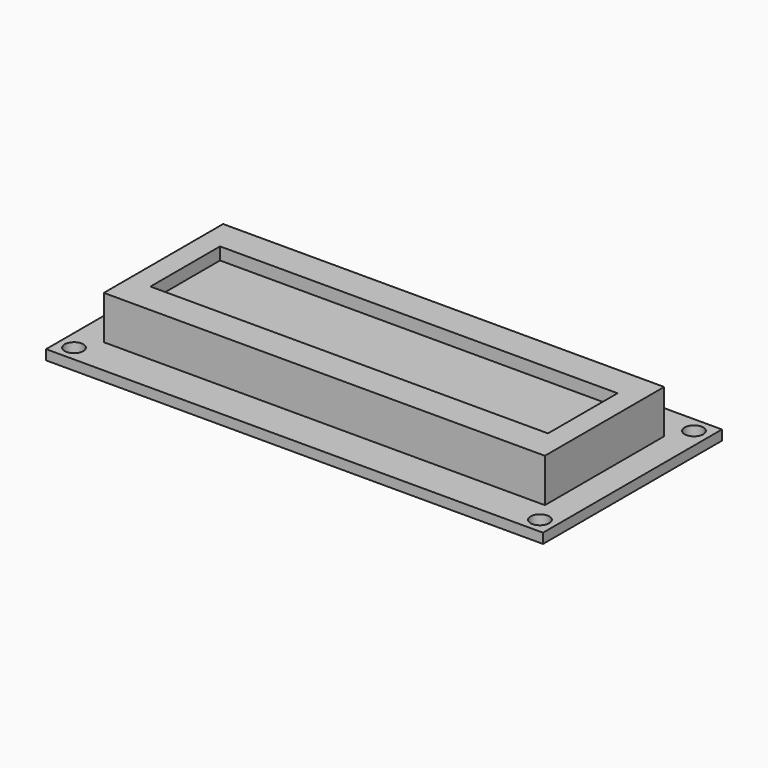
from build123d import *

# Parameters (mm, degrees)
F0_W      = 80
F0_H      = 36
F0_R      = 1.5
F0_W_2    = 71
F0_H_2    = 24
F1_DEPTH  = 1.6
F2_DEPTH  = 7
F3_W      = 64
F3_H      = 14
F4_DEPTH  = 2.2
F4_FACE_W = 64
F4_FACE_H = 14
F5_DEPTH  = 0.2
F6_R      = 0.4
F7_DEPTH  = 25


with BuildPart() as f1:
    # F0 (on Top) → F1 (new body)
    with BuildSketch(Plane.XY):
        Rectangle(F0_W, F0_H)
        with Locations((-37.5, -15.5)):
            Circle(F0_R, mode=Mode.SUBTRACT)
        with Locations((37.5, -15.5)):
            Circle(F0_R, mode=Mode.SUBTRACT)
        with Locations((-37.5, 15.5)):
            Circle(F0_R, mode=Mode.SUBTRACT)
        Rectangle(F0_W_2, F0_H_2, mode=Mode.SUBTRACT)
        with Locations((37.5, 15.5)):
            Circle(F0_R, mode=Mode.SUBTRACT)
        Rectangle(F0_W_2, F0_H_2)
    extrude(amount=-F1_DEPTH)

    # F6 (on face) → F7 (cut)
    with BuildSketch(Plane.XY):
        with Locations((-31.9, 15.9)):
            Circle(F6_R)
        with Locations((-29.36, 15.9)):
            Circle(F6_R)
        with Locations((-26.82, 15.9)):
            Circle(F6_R)
        with Locations((-24.28, 15.9)):
            Circle(F6_R)
        with Locations((-21.74, 15.9)):
            Circle(F6_R)
        with Locations((-19.2, 15.9)):
            Circle(F6_R)
        with Locations((-16.66, 15.9)):
            Circle(F6_R)
        with Locations((-14.12, 15.9)):
            Circle(F6_R)
        with Locations((-11.58, 15.9)):
            Circle(F6_R)
        with Locations((-9.04, 15.9)):
            Circle(F6_R)
        with Locations((-6.5, 15.9)):
            Circle(F6_R)
        with Locations((-3.96, 15.9)):
            Circle(F6_R)
        with Locations((-1.42, 15.9)):
            Circle(F6_R)
        with Locations((1.12, 15.9)):
            Circle(F6_R)
        with Locations((3.66, 15.9)):
            Circle(F6_R)
        with Locations((6.2, 15.9)):
            Circle(F6_R)
    extrude(amount=-F7_DEPTH, mode=Mode.SUBTRACT)


with BuildPart() as f2:
    # F0 (on Top) → F2 (new body)
    with BuildSketch(Plane.XY):
        Rectangle(F0_W_2, F0_H_2)
    extrude(amount=F2_DEPTH)

    # F3 (on face) → F4 (cut)
    with BuildSketch(Plane.XY.offset(7)):
        Rectangle(F3_W, F3_H)
    extrude(amount=-F4_DEPTH, mode=Mode.SUBTRACT)


with BuildPart() as f5:
    # F4_face (on face) → F5 (new body)
    with BuildSketch(Plane.XY.offset(4.8)):
        Rectangle(F4_FACE_W, F4_FACE_H)
    extrude(amount=F5_DEPTH)


solid = Compound([f1.part, f2.part, f5.part])
